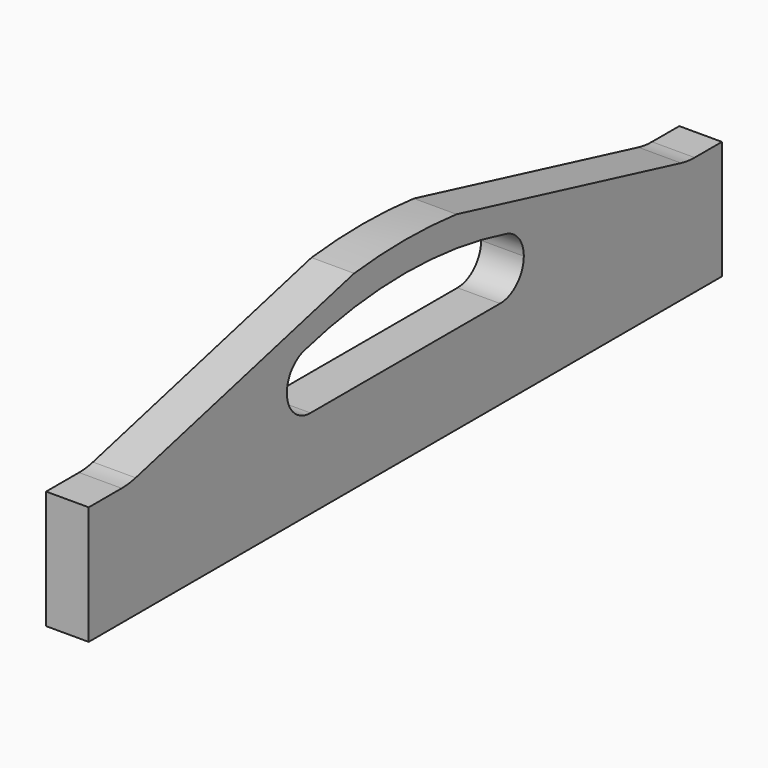
from build123d import *

# Parameters (mm, degrees)
F1_DEPTH = 18
F3_DEPTH = 25


with BuildPart() as f1:
    # F0 (on Right) → F1 (new body)
    with BuildSketch(Plane.YZ):
        with BuildLine():
            Line((0, 50), (0, 0))
            Line((0, 0), (140, 0))
            Line((140, 0), (140, 80))
            Line((140, 80), (24.734871, 50.911935))
            ThreePointArc((24.734871, 50.911935), (21.092784, 50.228857), (17.394268, 50))
            Line((17.394268, 50), (0, 50))
        make_face()
        with BuildLine():
            Line((140, 80), (140, 0))
            Line((140, 0), (194, 0))
            Line((194, 0), (194, 80))
            ThreePointArc((194, 80), (167, 81.532387), (140, 80))
        make_face()
        with BuildLine():
            Line((194, 80), (194, 0))
            Line((194, 0), (334, 0))
            Line((334, 0), (334, 50))
            Line((334, 50), (319.63439, 50))
            ThreePointArc((319.63439, 50), (316.02638, 50.217753), (312.470747, 50.867849))
            Line((312.470747, 50.867849), (194, 80))
        make_face()
    extrude(amount=F1_DEPTH)

    # F2 (on face) → F3 (cut)
    with BuildSketch(Plane.YZ.offset(18)):
        with BuildLine():
            ThreePointArc((104.5, 50), (108.161165, 41.161165), (117, 37.5))
            Line((117, 37.5), (217, 37.5))
            ThreePointArc((217, 37.5), (225.838835, 41.161165), (229.5, 50))
            ThreePointArc((229.5, 50), (226.928947, 57.593814), (220.273438, 62.063772))
            ThreePointArc((220.273438, 62.063772), (167, 69.163142), (113.726562, 62.063772))
            ThreePointArc((113.726562, 62.063772), (107.071053, 57.593814), (104.5, 50))
        make_face()
    extrude(amount=-F3_DEPTH, mode=Mode.SUBTRACT)


solid = f1.part
